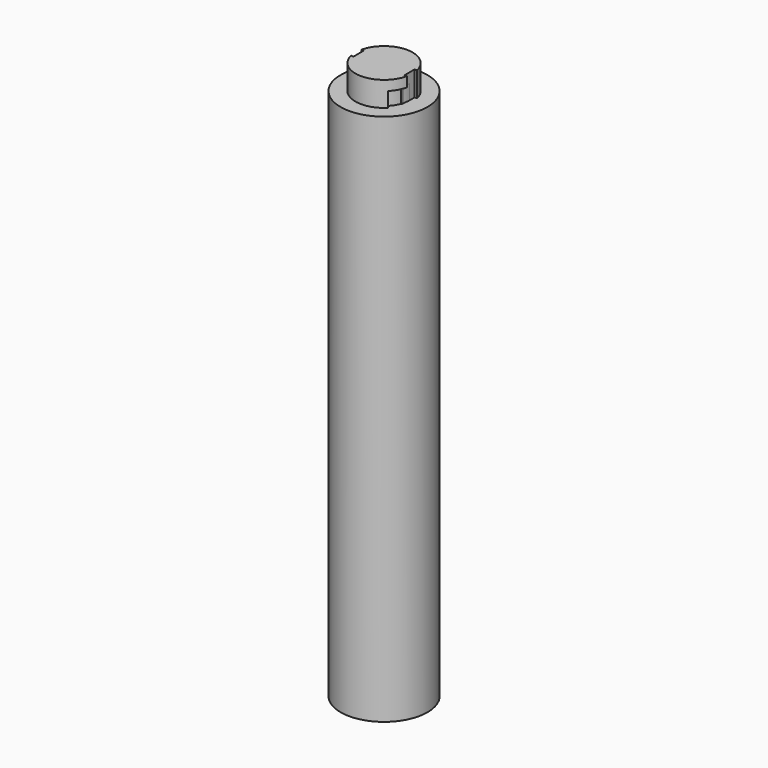
from build123d import *

# Parameters (mm, degrees)
SKETCH_R              = 8.8
PAD_DEPTH             = 108
SKETCH001_R           = 5.8
PAD001_DEPTH          = 5
SKETCH002_W           = 5
SKETCH002_H           = 2.6
POCKET_DEPTH          = 5
POLARPATTERN_COUNT    = 2
POCKET001_DEPTH       = 3
POLARPATTERN001_COUNT = 2
PAD002_DEPTH          = 5
POLARPATTERN002_COUNT = 2


with BuildPart() as part:
    # Sketch → Pad (new body)
    with BuildSketch(Plane.XY):
        Circle(SKETCH_R)
    extrude(amount=PAD_DEPTH)

    # Sketch001 → Pad001 (join)
    with BuildSketch(Plane.XY.offset(108)):
        Circle(SKETCH001_R)
    extrude(amount=PAD001_DEPTH)

    # Sketch002 → Pocket (cut)
    with BuildSketch(Plane.XY.offset(108)):
        with Locations((7.65, 0)):
            Rectangle(SKETCH002_W, SKETCH002_H)
    pocket = extrude(amount=POCKET_DEPTH, mode=Mode.SUBTRACT)

    # PolarPattern: Pocket ×2 about axis
    polarpattern_axis = Axis((0, 0, 108), (0, 0, 1))
    for i in range(1, POLARPATTERN_COUNT):
        add(pocket.rotate(polarpattern_axis, i * 360 / POLARPATTERN_COUNT), mode=Mode.SUBTRACT)

    # Sketch003 (on Face3 of PolarPattern) → Pocket001 (cut)
    with BuildSketch(Plane.XY.offset(108)):
        with BuildLine():
            ThreePointArc((3.6416, -3.6416), (4.75798, -1.97082), (5.15, 0))
            Line((8, 0), (5.15, 0))
            ThreePointArc((5.656854, -5.656854), (7.391036, -3.061467), (8, 0))
            Line((3.6416, -3.6416), (5.656854, -5.656854))
        make_face()
    pocket001 = extrude(amount=POCKET001_DEPTH, mode=Mode.SUBTRACT)

    # PolarPattern001: Pocket001 ×2 about axis
    polarpattern001_axis = Axis((0, 0, 108), (0, 0, 1))
    for i in range(1, POLARPATTERN001_COUNT):
        add(pocket001.rotate(polarpattern001_axis, i * 360 / POLARPATTERN001_COUNT), mode=Mode.SUBTRACT)

    # Sketch004 (on Face3 of PolarPattern001) → Pad002 (join)
    with BuildSketch(Plane.XY.offset(108)):
        with BuildLine():
            ThreePointArc((4.933386, -1.795606), (5.007014, -1.578705), (5.071111, -1.3588))
            Line((5.071111, -1.3588), (0, 0))
            Line((4.933386, -1.795606), (0, 0))
        make_face()
    pad002 = extrude(amount=PAD002_DEPTH)

    # PolarPattern002: Pad002 ×2 about axis
    polarpattern002_axis = Axis((0, 0, 108), (0, 0, 1))
    for i in range(1, POLARPATTERN002_COUNT):
        add(pad002.rotate(polarpattern002_axis, i * 360 / POLARPATTERN002_COUNT))


solid = part.part
